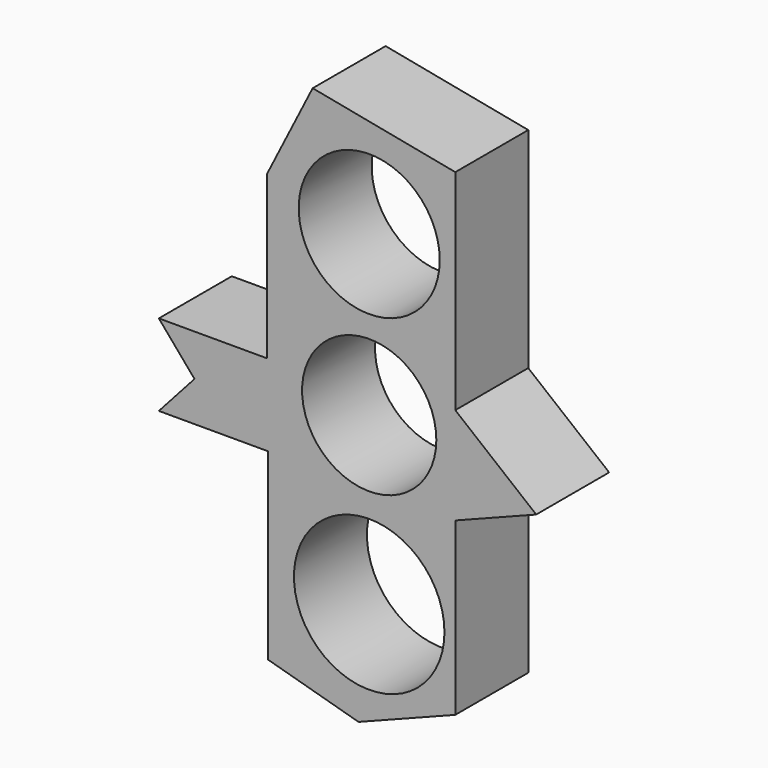
from build123d import *

# Parameters (mm, degrees)
F0_R     = 20.955717
F0_R_2   = 18.691203
F0_R_3   = 19.639005
F1_DEPTH = 25.4


with BuildPart() as f1:
    # F0 (on Front) → F1 (new body)
    with BuildSketch(Plane.XZ):
        Polygon((-15.746651, 75.044841), (-28.514201, 49.793459), (-28.514201, 19.435054), (-28.514201, 4.681436), (-38.728245, 4.681436), (-58.588885, 4.681436), (-48.658565, -6.951224), (-58.588885, -18.016437), (-38.728245, -18.016437), (-28.230477, -18.016437), (-28.230477, -69.086649), (-2.979095, -76.179735), (23.974629, -65.681964), (23.974629, -18.016437), (46.506939, -9.240691), (23.974629, 9.023473), (23.974629, 45.53761), (23.974629, 64.830795), (23.974629, 67.38431), align=None)
        with Locations((0, -46.388779)):
            Circle(F0_R, mode=Mode.SUBTRACT)
        Circle(F0_R_2, mode=Mode.SUBTRACT)
        with Locations((0, 44.402715)):
            Circle(F0_R_3, mode=Mode.SUBTRACT)
    extrude(amount=F1_DEPTH)


solid = f1.part
